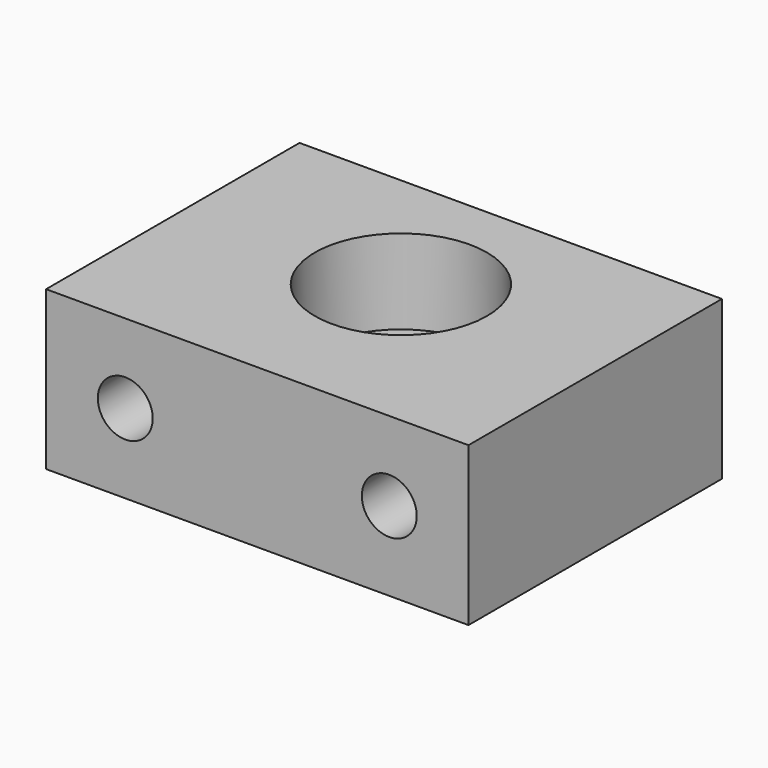
from build123d import *

# Parameters (mm, degrees)
SKETCH_W        = 40
SKETCH_H        = 30
SKETCH_R        = 5.5
PAD_DEPTH       = 15
SKETCH001_R     = 8.15
POCKET_DEPTH    = 8
SKETCH002_R     = 2.6
POCKET001_DEPTH = 30.001


with BuildPart() as part:
    # Sketch → Pad (new body)
    with BuildSketch(Plane.XY):
        with Locations((0, -2)):
            Rectangle(SKETCH_W, SKETCH_H)
        Circle(SKETCH_R, mode=Mode.SUBTRACT)
    extrude(amount=PAD_DEPTH)

    # Sketch001 (on Face7 of Pad) → Pocket (cut)
    with BuildSketch(Plane.XY.offset(15)):
        Circle(SKETCH001_R)
    extrude(amount=-POCKET_DEPTH, mode=Mode.SUBTRACT)

    # Sketch002 (on Face1 of Pocket) → Pocket001 (cut, through all)
    with BuildSketch(Plane(origin=(0, 13, 0), x_dir=(-1, 0, 0), z_dir=(0, 1, 0))):
        with Locations((-12.5, 7.5)):
            Circle(SKETCH002_R)
        with Locations((12.5, 7.5)):
            Circle(SKETCH002_R)
    extrude(amount=-POCKET001_DEPTH, mode=Mode.SUBTRACT)


solid = part.part
